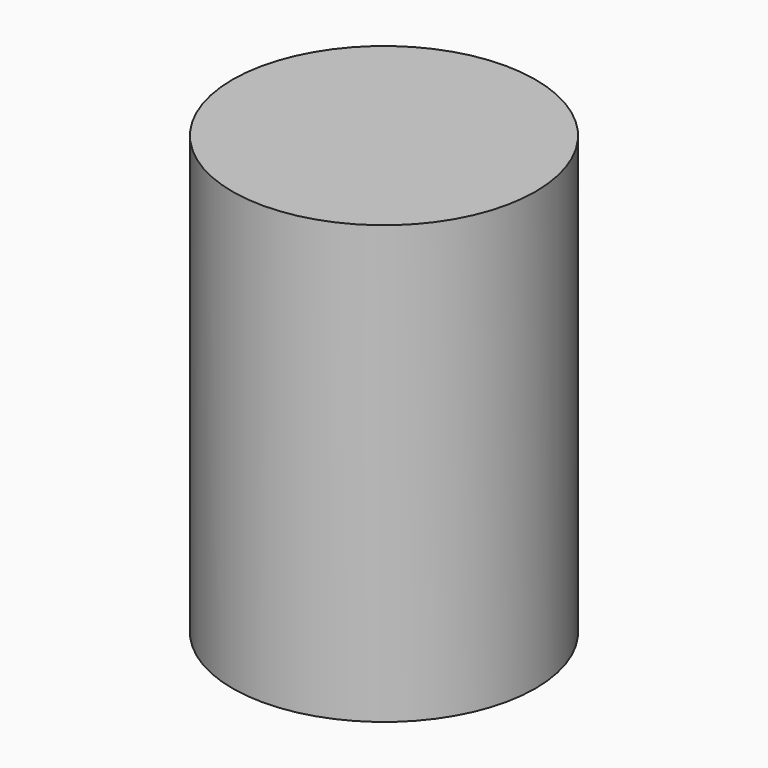
from build123d import *

# Parameters (mm, degrees)
F0_R     = 38.6580677432
F1_DEPTH = 60.7483312488
F2_DEPTH = 25.4
F3_DEPTH = 25.4


with BuildPart() as f1:
    # F0 (on Top) → F1 (new body)
    with BuildSketch(Plane.XY):
        with Locations((0.5874064986, -0.0370815396)):
            Circle(F0_R)
    extrude(amount=F1_DEPTH)

    # F2 (add): a face of the model
    f2_faces = [f1.faces().sort_by_distance(p)[0] for p in [
        (0.5874064986, -0.0370815396, 60.7483312488),
    ]]
    extrude(f2_faces, amount=F2_DEPTH)

    # F3 (add): a face of the model
    f3_faces = [f1.faces().sort_by_distance(p)[0] for p in [
        (0.5874064986, -0.0370815396, 86.1483312488),
    ]]
    extrude(f3_faces, amount=F3_DEPTH)


solid = f1.part
